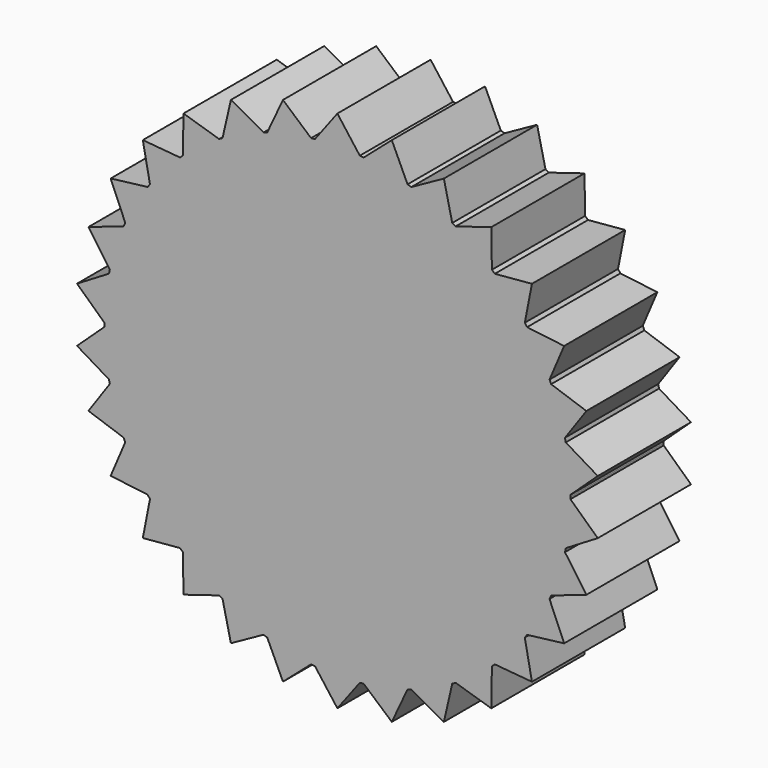
from build123d import *

# Parameters (mm, degrees)
F1_DEPTH = 12.7


with BuildPart() as f1:
    # F0 (on Front) → F1 (new body)
    with BuildSketch(Plane.XZ):
        with BuildLine():
            ThreePointArc((25.3991114904, -0.2124511716), (25.3997778716, -0.1062265148), (25.4, 0))
            ThreePointArc((25.4, 0), (25.3997778716, 0.1062265148), (25.3991114904, 0.2124511716))
            Line((25.3991114904, 0.2124511716), (25.2608561424, 2.655022967))
            Line((25.2608561424, 2.655022967), (24.8882510474, 5.0729636115))
            ThreePointArc((24.8882510474, 5.0729636115), (24.8449490586, 5.2809569468), (24.7999088828, 5.488580819))
            Line((24.7999088828, 5.488580819), (24.1568355139, 7.8490316571))
            Line((24.1568355139, 7.8490316571), (23.2896546065, 10.1366655419))
            ThreePointArc((23.2896546065, 10.1366655419), (23.2040546241, 10.3311107341), (23.1168312538, 10.5248331475))
            Line((23.1168312538, 10.5248331475), (21.9970452561, 12.7))
            Line((21.9970452561, 12.7), (20.6731885032, 14.7573465471))
            ThreePointArc((20.6731885032, 14.7573465471), (20.5490316571, 14.9297454082), (20.4234371722, 15.1010997636))
            Line((20.4234371722, 15.1010997636), (18.8758785671, 16.9959174015))
            Line((18.8758785671, 16.9959174015), (17.1532048613, 18.7330606945))
            ThreePointArc((17.1532048613, 18.7330606945), (16.9959174015, 18.8758785671), (16.8374408837, 19.017375857))
            Line((16.8374408837, 19.017375857), (14.9297454082, 20.5490316571))
            Line((14.9297454082, 20.5490316571), (12.8835438568, 21.8900501984))
            ThreePointArc((12.8835438568, 21.8900501984), (12.7, 21.9970452561), (12.5155676335, 22.10250137))
            Line((12.5155676335, 22.10250137), (10.3311107341, 23.2040546241))
            Line((10.3311107341, 23.2040546241), (8.0508101637, 24.0903394685))
            ThreePointArc((8.0508101637, 24.0903394685), (7.8490316571, 24.1568355139), (7.6467040214, 24.2216415135))
            Line((7.6467040214, 24.2216415135), (5.2809569468, 24.8449490586))
            Line((5.2809569468, 24.8449490586), (2.8662174343, 25.2377653056))
            ThreePointArc((2.8662174343, 25.2377653056), (2.655022967, 25.2608561424), (2.4436427506, 25.2821796945))
            Line((2.4436427506, 25.2821796945), (0, 25.4))
            Line((0, 25.4), (-2.4436427506, 25.2821796945))
            ThreePointArc((-2.4436427506, 25.2821796945), (-2.655022967, 25.2608561424), (-2.8662174343, 25.2377653056))
            Line((-2.8662174343, 25.2377653056), (-5.2809569468, 24.8449490586))
            Line((-5.2809569468, 24.8449490586), (-7.6467040214, 24.2216415135))
            ThreePointArc((-7.6467040214, 24.2216415135), (-7.8490316571, 24.1568355139), (-8.0508101637, 24.0903394685))
            Line((-8.0508101637, 24.0903394685), (-10.3311107341, 23.2040546241))
            Line((-10.3311107341, 23.2040546241), (-12.5155676335, 22.10250137))
            ThreePointArc((-12.5155676335, 22.10250137), (-12.7, 21.9970452561), (-12.8835438568, 21.8900501984))
            Line((-12.8835438568, 21.8900501984), (-14.9297454082, 20.5490316571))
            Line((-14.9297454082, 20.5490316571), (-16.8374408837, 19.017375857))
            ThreePointArc((-16.8374408837, 19.017375857), (-16.9959174015, 18.8758785671), (-17.1532048613, 18.7330606945))
            Line((-17.1532048613, 18.7330606945), (-18.8758785671, 16.9959174015))
            Line((-18.8758785671, 16.9959174015), (-20.4234371722, 15.1010997636))
            ThreePointArc((-20.4234371722, 15.1010997636), (-20.5490316571, 14.9297454082), (-20.6731885032, 14.7573465471))
            Line((-20.6731885032, 14.7573465471), (-21.9970452561, 12.7))
            Line((-21.9970452561, 12.7), (-23.1168312538, 10.5248331475))
            ThreePointArc((-23.1168312538, 10.5248331475), (-23.2040546241, 10.3311107341), (-23.2896546065, 10.1366655419))
            Line((-23.2896546065, 10.1366655419), (-24.1568355139, 7.8490316571))
            Line((-24.1568355139, 7.8490316571), (-24.7999088828, 5.488580819))
            ThreePointArc((-24.7999088828, 5.488580819), (-24.8449490586, 5.2809569468), (-24.8882510474, 5.0729636115))
            Line((-24.8882510474, 5.0729636115), (-25.2608561424, 2.655022967))
            Line((-25.2608561424, 2.655022967), (-25.3991114904, 0.2124511716))
            ThreePointArc((-25.3991114904, 0.2124511716), (-25.4, 0), (-25.3991114904, -0.2124511716))
            Line((-25.3991114904, -0.2124511716), (-25.2608561424, -2.655022967))
            Line((-25.2608561424, -2.655022967), (-24.8882510474, -5.0729636115))
            ThreePointArc((-24.8882510474, -5.0729636115), (-24.8449490586, -5.2809569468), (-24.7999088828, -5.488580819))
            Line((-24.7999088828, -5.488580819), (-24.1568355139, -7.8490316571))
            Line((-24.1568355139, -7.8490316571), (-23.2896546065, -10.1366655419))
            ThreePointArc((-23.2896546065, -10.1366655419), (-23.2040546241, -10.3311107341), (-23.1168312538, -10.5248331475))
            Line((-23.1168312538, -10.5248331475), (-21.9970452561, -12.7))
            Line((-21.9970452561, -12.7), (-20.6731885032, -14.7573465471))
            ThreePointArc((-20.6731885032, -14.7573465471), (-20.5490316571, -14.9297454082), (-20.4234371722, -15.1010997636))
            Line((-20.4234371722, -15.1010997636), (-18.8758785671, -16.9959174015))
            Line((-18.8758785671, -16.9959174015), (-17.1532048613, -18.7330606945))
            ThreePointArc((-17.1532048613, -18.7330606945), (-16.9959174015, -18.8758785671), (-16.8374408837, -19.017375857))
            Line((-16.8374408837, -19.017375857), (-14.9297454082, -20.5490316571))
            Line((-14.9297454082, -20.5490316571), (-12.8835438568, -21.8900501984))
            ThreePointArc((-12.8835438568, -21.8900501984), (-12.7, -21.9970452561), (-12.5155676335, -22.10250137))
            Line((-12.5155676335, -22.10250137), (-10.3311107341, -23.2040546241))
            Line((-10.3311107341, -23.2040546241), (-8.0508101637, -24.0903394685))
            ThreePointArc((-8.0508101637, -24.0903394685), (-7.8490316571, -24.1568355139), (-7.6467040214, -24.2216415135))
            Line((-7.6467040214, -24.2216415135), (-5.2809569468, -24.8449490586))
            Line((-5.2809569468, -24.8449490586), (-2.8662174343, -25.2377653056))
            ThreePointArc((-2.8662174343, -25.2377653056), (-2.655022967, -25.2608561424), (-2.4436427506, -25.2821796945))
            Line((-2.4436427506, -25.2821796945), (0, -25.4))
            Line((0, -25.4), (2.4436427506, -25.2821796945))
            ThreePointArc((2.4436427506, -25.2821796945), (2.655022967, -25.2608561424), (2.8662174343, -25.2377653056))
            Line((2.8662174343, -25.2377653056), (5.2809569468, -24.8449490586))
            Line((5.2809569468, -24.8449490586), (7.6467040214, -24.2216415135))
            ThreePointArc((7.6467040214, -24.2216415135), (7.8490316571, -24.1568355139), (8.0508101637, -24.0903394685))
            Line((8.0508101637, -24.0903394685), (10.3311107341, -23.2040546241))
            Line((10.3311107341, -23.2040546241), (12.5155676335, -22.10250137))
            ThreePointArc((12.5155676335, -22.10250137), (12.7, -21.9970452561), (12.8835438568, -21.8900501984))
            Line((12.8835438568, -21.8900501984), (14.9297454082, -20.5490316571))
            Line((14.9297454082, -20.5490316571), (16.8374408837, -19.017375857))
            ThreePointArc((16.8374408837, -19.017375857), (16.9959174015, -18.8758785671), (17.1532048613, -18.7330606945))
            Line((17.1532048613, -18.7330606945), (18.8758785671, -16.9959174015))
            Line((18.8758785671, -16.9959174015), (20.4234371722, -15.1010997636))
            ThreePointArc((20.4234371722, -15.1010997636), (20.5490316571, -14.9297454082), (20.6731885032, -14.7573465471))
            Line((20.6731885032, -14.7573465471), (21.9970452561, -12.7))
            Line((21.9970452561, -12.7), (23.1168312538, -10.5248331475))
            ThreePointArc((23.1168312538, -10.5248331475), (23.2040546241, -10.3311107341), (23.2896546065, -10.1366655419))
            Line((23.2896546065, -10.1366655419), (24.1568355139, -7.8490316571))
            Line((24.1568355139, -7.8490316571), (24.7999088828, -5.488580819))
            ThreePointArc((24.7999088828, -5.488580819), (24.8449490586, -5.2809569468), (24.8882510474, -5.0729636115))
            Line((24.8882510474, -5.0729636115), (25.2608561424, -2.655022967))
            Line((25.2608561424, -2.655022967), (25.3991114904, -0.2124511716))
        make_face()
        with BuildLine():
            Line((25.2608561424, 2.655022967), (25.3991114904, 0.2124511716))
            ThreePointArc((25.3991114904, 0.2124511716), (25.3594088926, 1.4354025983), (25.2608561424, 2.655022967))
        make_face()
        with BuildLine():
            ThreePointArc((25.2608561424, 2.655022967), (25.3594088926, 1.4354025983), (25.3991114904, 0.2124511716))
            Line((25.3991114904, 0.2124511716), (28.3731537557, 2.9821386276))
            Line((28.3731537557, 2.9821386276), (24.8882510474, 5.0729636115))
            ThreePointArc((24.8882510474, 5.0729636115), (25.1036819455, 3.8684819734), (25.2608561424, 2.655022967))
        make_face()
        with BuildLine():
            Line((28.3731537557, -2.9821386276), (25.3991114904, -0.2124511716))
            ThreePointArc((25.3991114904, -0.2124511716), (25.3594088926, -1.4354025983), (25.2608561424, -2.655022967))
            ThreePointArc((25.2608561424, -2.655022967), (25.1036819455, -3.8684819734), (24.8882510474, -5.0729636115))
            Line((24.8882510474, -5.0729636115), (28.3731537557, -2.9821386276))
        make_face()
        with BuildLine():
            ThreePointArc((25.2608561424, -2.655022967), (25.3594088926, -1.4354025983), (25.3991114904, -0.2124511716))
            Line((25.3991114904, -0.2124511716), (25.2608561424, -2.655022967))
        make_face()
        with BuildLine():
            Line((24.8882510474, 5.0729636115), (25.2608561424, 2.655022967))
            ThreePointArc((25.2608561424, 2.655022967), (25.1036819455, 3.8684819734), (24.8882510474, 5.0729636115))
        make_face()
        with BuildLine():
            ThreePointArc((24.8882510474, -5.0729636115), (25.1036819455, -3.8684819734), (25.2608561424, -2.655022967))
            Line((25.2608561424, -2.655022967), (24.8882510474, -5.0729636115))
        make_face()
        with BuildLine():
            Line((24.1568355139, 7.8490316571), (24.7999088828, 5.488580819))
            ThreePointArc((24.7999088828, 5.488580819), (24.5068079831, 6.6765531886), (24.1568355139, 7.8490316571))
        make_face()
        with BuildLine():
            ThreePointArc((24.1568355139, 7.8490316571), (24.5068079831, 6.6765531886), (24.7999088828, 5.488580819))
            Line((24.7999088828, 5.488580819), (27.1331107871, 8.8160821148))
            Line((27.1331107871, 8.8160821148), (23.2896546065, 10.1366655419))
            ThreePointArc((23.2896546065, 10.1366655419), (23.7508036366, 9.0032953198), (24.1568355139, 7.8490316571))
        make_face()
        with BuildLine():
            Line((27.1331107871, -8.8160821148), (24.7999088828, -5.488580819))
            ThreePointArc((24.7999088828, -5.488580819), (24.5068079831, -6.6765531886), (24.1568355139, -7.8490316571))
            ThreePointArc((24.1568355139, -7.8490316571), (23.7508036366, -9.0032953198), (23.2896546065, -10.1366655419))
            Line((23.2896546065, -10.1366655419), (27.1331107871, -8.8160821148))
        make_face()
        with BuildLine():
            ThreePointArc((24.1568355139, -7.8490316571), (24.5068079831, -6.6765531886), (24.7999088828, -5.488580819))
            Line((24.7999088828, -5.488580819), (24.1568355139, -7.8490316571))
        make_face()
        with BuildLine():
            Line((23.2896546065, 10.1366655419), (24.1568355139, 7.8490316571))
            ThreePointArc((24.1568355139, 7.8490316571), (23.7508036366, 9.0032953198), (23.2896546065, 10.1366655419))
        make_face()
        with BuildLine():
            ThreePointArc((23.2896546065, -10.1366655419), (23.7508036366, -9.0032953198), (24.1568355139, -7.8490316571))
            Line((24.1568355139, -7.8490316571), (23.2896546065, -10.1366655419))
        make_face()
        with BuildLine():
            Line((21.9970452561, 12.7), (23.1168312538, 10.5248331475))
            ThreePointArc((23.1168312538, 10.5248331475), (22.583141968, 11.6259063669), (21.9970452561, 12.7))
        make_face()
        with BuildLine():
            ThreePointArc((21.9970452561, 12.7), (22.583141968, 11.6259063669), (23.1168312538, 10.5248331475))
            Line((23.1168312538, 10.5248331475), (24.7072206779, 14.2647205093))
            Line((24.7072206779, 14.2647205093), (20.6731885032, 14.7573465471))
            ThreePointArc((20.6731885032, 14.7573465471), (21.3599012398, 13.7446214581), (21.9970452561, 12.7))
        make_face()
        with BuildLine():
            Line((24.7072206779, -14.2647205093), (23.1168312538, -10.5248331475))
            ThreePointArc((23.1168312538, -10.5248331475), (22.583141968, -11.6259063669), (21.9970452561, -12.7))
            ThreePointArc((21.9970452561, -12.7), (21.3599012398, -13.7446214581), (20.6731885032, -14.7573465471))
            Line((20.6731885032, -14.7573465471), (24.7072206779, -14.2647205093))
        make_face()
        with BuildLine():
            ThreePointArc((21.9970452561, -12.7), (22.583141968, -11.6259063669), (23.1168312538, -10.5248331475))
            Line((23.1168312538, -10.5248331475), (21.9970452561, -12.7))
        make_face()
        with BuildLine():
            Line((20.6731885032, 14.7573465471), (21.9970452561, 12.7))
            ThreePointArc((21.9970452561, 12.7), (21.3599012398, 13.7446214581), (20.6731885032, 14.7573465471))
        make_face()
        with BuildLine():
            ThreePointArc((20.6731885032, -14.7573465471), (21.3599012398, -13.7446214581), (21.9970452561, -12.7))
            Line((21.9970452561, -12.7), (20.6731885032, -14.7573465471))
        make_face()
        with BuildLine():
            Line((18.8758785671, 16.9959174015), (20.4234371722, 15.1010997636))
            ThreePointArc((20.4234371722, 15.1010997636), (19.672484283, 16.0671516497), (18.8758785671, 16.9959174015))
        make_face()
        with BuildLine():
            ThreePointArc((18.8758785671, 16.9959174015), (19.672484283, 16.0671516497), (20.4234371722, 15.1010997636))
            Line((20.4234371722, 15.1010997636), (21.2015064668, 19.0899221679))
            Line((21.2015064668, 19.0899221679), (17.1532048613, 18.7330606945))
            ThreePointArc((17.1532048613, 18.7330606945), (18.0354686626, 17.8852416847), (18.8758785671, 16.9959174015))
        make_face()
        with BuildLine():
            Line((21.2015064668, -19.0899221679), (20.4234371722, -15.1010997636))
            ThreePointArc((20.4234371722, -15.1010997636), (19.672484283, -16.0671516497), (18.8758785671, -16.9959174015))
            ThreePointArc((18.8758785671, -16.9959174015), (18.0354686626, -17.8852416847), (17.1532048613, -18.7330606945))
            Line((17.1532048613, -18.7330606945), (21.2015064668, -19.0899221679))
        make_face()
        with BuildLine():
            ThreePointArc((18.8758785671, -16.9959174015), (19.672484283, -16.0671516497), (20.4234371722, -15.1010997636))
            Line((20.4234371722, -15.1010997636), (18.8758785671, -16.9959174015))
        make_face()
        with BuildLine():
            Line((17.1532048613, 18.7330606945), (18.8758785671, 16.9959174015))
            ThreePointArc((18.8758785671, 16.9959174015), (18.0354686626, 17.8852416847), (17.1532048613, 18.7330606945))
        make_face()
        with BuildLine():
            ThreePointArc((17.1532048613, -18.7330606945), (18.0354686626, -17.8852416847), (18.8758785671, -16.9959174015))
            Line((18.8758785671, -16.9959174015), (17.1532048613, -18.7330606945))
        make_face()
        with BuildLine():
            Line((14.9297454082, 20.5490316571), (16.8374408837, 19.017375857))
            ThreePointArc((16.8374408837, 19.017375857), (15.9020446358, 19.8061853066), (14.9297454082, 20.5490316571))
        make_face()
        with BuildLine():
            ThreePointArc((14.9297454082, 20.5490316571), (15.9020446358, 19.8061853066), (16.8374408837, 19.017375857))
            Line((16.8374408837, 19.017375857), (16.7691846869, 23.0808026241))
            Line((16.7691846869, 23.0808026241), (12.8835438568, 21.8900501984))
            ThreePointArc((12.8835438568, 21.8900501984), (13.9227995611, 21.2441910268), (14.9297454082, 20.5490316571))
        make_face()
        with BuildLine():
            Line((16.7691846869, -23.0808026241), (16.8374408837, -19.017375857))
            ThreePointArc((16.8374408837, -19.017375857), (15.9020446358, -19.8061853066), (14.9297454082, -20.5490316571))
            ThreePointArc((14.9297454082, -20.5490316571), (13.9227995611, -21.2441910268), (12.8835438568, -21.8900501984))
            Line((12.8835438568, -21.8900501984), (16.7691846869, -23.0808026241))
        make_face()
        with BuildLine():
            ThreePointArc((14.9297454082, -20.5490316571), (15.9020446358, -19.8061853066), (16.8374408837, -19.017375857))
            Line((16.8374408837, -19.017375857), (14.9297454082, -20.5490316571))
        make_face()
        with BuildLine():
            Line((12.8835438568, 21.8900501984), (14.9297454082, 20.5490316571))
            ThreePointArc((14.9297454082, 20.5490316571), (13.9227995611, 21.2441910268), (12.8835438568, 21.8900501984))
        make_face()
        with BuildLine():
            ThreePointArc((12.8835438568, -21.8900501984), (13.9227995611, -21.2441910268), (14.9297454082, -20.5490316571))
            Line((14.9297454082, -20.5490316571), (12.8835438568, -21.8900501984))
        make_face()
        with BuildLine():
            Line((10.3311107341, 23.2040546241), (12.5155676335, 22.10250137))
            ThreePointArc((12.5155676335, 22.10250137), (11.4366093315, 22.6795936251), (10.3311107341, 23.2040546241))
        make_face()
        with BuildLine():
            ThreePointArc((10.3311107341, 23.2040546241), (11.4366093315, 22.6795936251), (12.5155676335, 22.10250137))
            Line((12.5155676335, 22.10250137), (11.6039690688, 26.0629412517))
            Line((11.6039690688, 26.0629412517), (8.0508101637, 24.0903394685))
            ThreePointArc((8.0508101637, 24.0903394685), (9.2016373097, 23.67466728), (10.3311107341, 23.2040546241))
        make_face()
        with BuildLine():
            Line((11.6039690688, -26.0629412517), (12.5155676335, -22.10250137))
            ThreePointArc((12.5155676335, -22.10250137), (11.4366093315, -22.6795936251), (10.3311107341, -23.2040546241))
            ThreePointArc((10.3311107341, -23.2040546241), (9.2016373097, -23.67466728), (8.0508101637, -24.0903394685))
            Line((8.0508101637, -24.0903394685), (11.6039690688, -26.0629412517))
        make_face()
        with BuildLine():
            ThreePointArc((10.3311107341, -23.2040546241), (11.4366093315, -22.6795936251), (12.5155676335, -22.10250137))
            Line((12.5155676335, -22.10250137), (10.3311107341, -23.2040546241))
        make_face()
        with BuildLine():
            Line((8.0508101637, 24.0903394685), (10.3311107341, 23.2040546241))
            ThreePointArc((10.3311107341, 23.2040546241), (9.2016373097, 23.67466728), (8.0508101637, 24.0903394685))
        make_face()
        with BuildLine():
            ThreePointArc((8.0508101637, -24.0903394685), (9.2016373097, -23.67466728), (10.3311107341, -23.2040546241))
            Line((10.3311107341, -23.2040546241), (8.0508101637, -24.0903394685))
        make_face()
        with BuildLine():
            Line((5.2809569468, 24.8449490586), (7.6467040214, 24.2216415135))
            ThreePointArc((7.6467040214, 24.2216415135), (6.4713393205, 24.5617948733), (5.2809569468, 24.8449490586))
        make_face()
        with BuildLine():
            ThreePointArc((5.2809569468, 24.8449490586), (6.4713393205, 24.5617948733), (7.6467040214, 24.2216415135))
            Line((7.6467040214, 24.2216415135), (5.9316043203, 27.9060042827))
            Line((5.9316043203, 27.9060042827), (2.8662174343, 25.2377653056))
            ThreePointArc((2.8662174343, 25.2377653056), (4.0783193536, 25.0704469695), (5.2809569468, 24.8449490586))
        make_face()
        with BuildLine():
            Line((5.9316043203, -27.9060042827), (7.6467040214, -24.2216415135))
            ThreePointArc((7.6467040214, -24.2216415135), (6.4713393205, -24.5617948733), (5.2809569468, -24.8449490586))
            ThreePointArc((5.2809569468, -24.8449490586), (4.0783193536, -25.0704469695), (2.8662174343, -25.2377653056))
            Line((2.8662174343, -25.2377653056), (5.9316043203, -27.9060042827))
        make_face()
        with BuildLine():
            ThreePointArc((5.2809569468, -24.8449490586), (6.4713393205, -24.5617948733), (7.6467040214, -24.2216415135))
            Line((7.6467040214, -24.2216415135), (5.2809569468, -24.8449490586))
        make_face()
        with BuildLine():
            Line((2.8662174343, 25.2377653056), (5.2809569468, 24.8449490586))
            ThreePointArc((5.2809569468, 24.8449490586), (4.0783193536, 25.0704469695), (2.8662174343, 25.2377653056))
        make_face()
        with BuildLine():
            ThreePointArc((2.8662174343, -25.2377653056), (4.0783193536, -25.0704469695), (5.2809569468, -24.8449490586))
            Line((5.2809569468, -24.8449490586), (2.8662174343, -25.2377653056))
        make_face()
        with BuildLine():
            Line((0, 25.4), (2.4436427506, 25.2821796945))
            ThreePointArc((2.4436427506, 25.2821796945), (1.2232407283, 25.370527825), (0, 25.4))
        make_face()
        with BuildLine():
            ThreePointArc((0, 25.4), (1.2232407283, 25.370527825), (2.4436427506, 25.2821796945))
            Line((2.4436427506, 25.2821796945), (0, 28.5294410187))
            Line((0, 28.5294410187), (-2.4436427506, 25.2821796945))
            ThreePointArc((-2.4436427506, 25.2821796945), (-1.2232407283, 25.370527825), (0, 25.4))
        make_face()
        with BuildLine():
            Line((0, -28.5294410187), (2.4436427506, -25.2821796945))
            ThreePointArc((2.4436427506, -25.2821796945), (1.2232407283, -25.370527825), (0, -25.4))
            ThreePointArc((0, -25.4), (-1.2232407283, -25.370527825), (-2.4436427506, -25.2821796945))
            Line((-2.4436427506, -25.2821796945), (0, -28.5294410187))
        make_face()
        with BuildLine():
            ThreePointArc((0, -25.4), (1.2232407283, -25.370527825), (2.4436427506, -25.2821796945))
            Line((2.4436427506, -25.2821796945), (0, -25.4))
        make_face()
        with BuildLine():
            Line((-2.4436427506, 25.2821796945), (0, 25.4))
            ThreePointArc((0, 25.4), (-1.2232407283, 25.370527825), (-2.4436427506, 25.2821796945))
        make_face()
        with BuildLine():
            ThreePointArc((-2.4436427506, -25.2821796945), (-1.2232407283, -25.370527825), (0, -25.4))
            Line((0, -25.4), (-2.4436427506, -25.2821796945))
        make_face()
        with BuildLine():
            Line((-5.2809569468, 24.8449490586), (-2.8662174343, 25.2377653056))
            ThreePointArc((-2.8662174343, 25.2377653056), (-4.0783193536, 25.0704469695), (-5.2809569468, 24.8449490586))
        make_face()
        with BuildLine():
            ThreePointArc((-5.2809569468, 24.8449490586), (-4.0783193536, 25.0704469695), (-2.8662174343, 25.2377653056))
            Line((-2.8662174343, 25.2377653056), (-5.9316043203, 27.9060042827))
            Line((-5.9316043203, 27.9060042827), (-7.6467040214, 24.2216415135))
            ThreePointArc((-7.6467040214, 24.2216415135), (-6.4713393205, 24.5617948733), (-5.2809569468, 24.8449490586))
        make_face()
        with BuildLine():
            Line((-5.9316043203, -27.9060042827), (-2.8662174343, -25.2377653056))
            ThreePointArc((-2.8662174343, -25.2377653056), (-4.0783193536, -25.0704469695), (-5.2809569468, -24.8449490586))
            ThreePointArc((-5.2809569468, -24.8449490586), (-6.4713393205, -24.5617948733), (-7.6467040214, -24.2216415135))
            Line((-7.6467040214, -24.2216415135), (-5.9316043203, -27.9060042827))
        make_face()
        with BuildLine():
            ThreePointArc((-5.2809569468, -24.8449490586), (-4.0783193536, -25.0704469695), (-2.8662174343, -25.2377653056))
            Line((-2.8662174343, -25.2377653056), (-5.2809569468, -24.8449490586))
        make_face()
        with BuildLine():
            Line((-7.6467040214, 24.2216415135), (-5.2809569468, 24.8449490586))
            ThreePointArc((-5.2809569468, 24.8449490586), (-6.4713393205, 24.5617948733), (-7.6467040214, 24.2216415135))
        make_face()
        with BuildLine():
            ThreePointArc((-7.6467040214, -24.2216415135), (-6.4713393205, -24.5617948733), (-5.2809569468, -24.8449490586))
            Line((-5.2809569468, -24.8449490586), (-7.6467040214, -24.2216415135))
        make_face()
        with BuildLine():
            Line((-10.3311107341, 23.2040546241), (-8.0508101637, 24.0903394685))
            ThreePointArc((-8.0508101637, 24.0903394685), (-9.2016373097, 23.67466728), (-10.3311107341, 23.2040546241))
        make_face()
        with BuildLine():
            ThreePointArc((-10.3311107341, 23.2040546241), (-9.2016373097, 23.67466728), (-8.0508101637, 24.0903394685))
            Line((-8.0508101637, 24.0903394685), (-11.6039690688, 26.0629412517))
            Line((-11.6039690688, 26.0629412517), (-12.5155676335, 22.10250137))
            ThreePointArc((-12.5155676335, 22.10250137), (-11.4366093315, 22.6795936251), (-10.3311107341, 23.2040546241))
        make_face()
        with BuildLine():
            Line((-11.6039690688, -26.0629412517), (-8.0508101637, -24.0903394685))
            ThreePointArc((-8.0508101637, -24.0903394685), (-9.2016373097, -23.67466728), (-10.3311107341, -23.2040546241))
            ThreePointArc((-10.3311107341, -23.2040546241), (-11.4366093315, -22.6795936251), (-12.5155676335, -22.10250137))
            Line((-12.5155676335, -22.10250137), (-11.6039690688, -26.0629412517))
        make_face()
        with BuildLine():
            ThreePointArc((-10.3311107341, -23.2040546241), (-9.2016373097, -23.67466728), (-8.0508101637, -24.0903394685))
            Line((-8.0508101637, -24.0903394685), (-10.3311107341, -23.2040546241))
        make_face()
        with BuildLine():
            Line((-12.5155676335, 22.10250137), (-10.3311107341, 23.2040546241))
            ThreePointArc((-10.3311107341, 23.2040546241), (-11.4366093315, 22.6795936251), (-12.5155676335, 22.10250137))
        make_face()
        with BuildLine():
            ThreePointArc((-12.5155676335, -22.10250137), (-11.4366093315, -22.6795936251), (-10.3311107341, -23.2040546241))
            Line((-10.3311107341, -23.2040546241), (-12.5155676335, -22.10250137))
        make_face()
        with BuildLine():
            Line((-14.9297454082, 20.5490316571), (-12.8835438568, 21.8900501984))
            ThreePointArc((-12.8835438568, 21.8900501984), (-13.9227995611, 21.2441910268), (-14.9297454082, 20.5490316571))
        make_face()
        with BuildLine():
            ThreePointArc((-14.9297454082, 20.5490316571), (-13.9227995611, 21.2441910268), (-12.8835438568, 21.8900501984))
            Line((-12.8835438568, 21.8900501984), (-16.7691846869, 23.0808026241))
            Line((-16.7691846869, 23.0808026241), (-16.8374408837, 19.017375857))
            ThreePointArc((-16.8374408837, 19.017375857), (-15.9020446358, 19.8061853066), (-14.9297454082, 20.5490316571))
        make_face()
        with BuildLine():
            Line((-16.7691846869, -23.0808026241), (-12.8835438568, -21.8900501984))
            ThreePointArc((-12.8835438568, -21.8900501984), (-13.9227995611, -21.2441910268), (-14.9297454082, -20.5490316571))
            ThreePointArc((-14.9297454082, -20.5490316571), (-15.9020446358, -19.8061853066), (-16.8374408837, -19.017375857))
            Line((-16.8374408837, -19.017375857), (-16.7691846869, -23.0808026241))
        make_face()
        with BuildLine():
            ThreePointArc((-14.9297454082, -20.5490316571), (-13.9227995611, -21.2441910268), (-12.8835438568, -21.8900501984))
            Line((-12.8835438568, -21.8900501984), (-14.9297454082, -20.5490316571))
        make_face()
        with BuildLine():
            Line((-16.8374408837, 19.017375857), (-14.9297454082, 20.5490316571))
            ThreePointArc((-14.9297454082, 20.5490316571), (-15.9020446358, 19.8061853066), (-16.8374408837, 19.017375857))
        make_face()
        with BuildLine():
            ThreePointArc((-16.8374408837, -19.017375857), (-15.9020446358, -19.8061853066), (-14.9297454082, -20.5490316571))
            Line((-14.9297454082, -20.5490316571), (-16.8374408837, -19.017375857))
        make_face()
        with BuildLine():
            Line((-18.8758785671, 16.9959174015), (-17.1532048613, 18.7330606945))
            ThreePointArc((-17.1532048613, 18.7330606945), (-18.0354686626, 17.8852416847), (-18.8758785671, 16.9959174015))
        make_face()
        with BuildLine():
            ThreePointArc((-18.8758785671, 16.9959174015), (-18.0354686626, 17.8852416847), (-17.1532048613, 18.7330606945))
            Line((-17.1532048613, 18.7330606945), (-21.2015064668, 19.0899221679))
            Line((-21.2015064668, 19.0899221679), (-20.4234371722, 15.1010997636))
            ThreePointArc((-20.4234371722, 15.1010997636), (-19.672484283, 16.0671516497), (-18.8758785671, 16.9959174015))
        make_face()
        with BuildLine():
            Line((-21.2015064668, -19.0899221679), (-17.1532048613, -18.7330606945))
            ThreePointArc((-17.1532048613, -18.7330606945), (-18.0354686626, -17.8852416847), (-18.8758785671, -16.9959174015))
            ThreePointArc((-18.8758785671, -16.9959174015), (-19.672484283, -16.0671516497), (-20.4234371722, -15.1010997636))
            Line((-20.4234371722, -15.1010997636), (-21.2015064668, -19.0899221679))
        make_face()
        with BuildLine():
            ThreePointArc((-18.8758785671, -16.9959174015), (-18.0354686626, -17.8852416847), (-17.1532048613, -18.7330606945))
            Line((-17.1532048613, -18.7330606945), (-18.8758785671, -16.9959174015))
        make_face()
        with BuildLine():
            Line((-20.4234371722, 15.1010997636), (-18.8758785671, 16.9959174015))
            ThreePointArc((-18.8758785671, 16.9959174015), (-19.672484283, 16.0671516497), (-20.4234371722, 15.1010997636))
        make_face()
        with BuildLine():
            ThreePointArc((-20.4234371722, -15.1010997636), (-19.672484283, -16.0671516497), (-18.8758785671, -16.9959174015))
            Line((-18.8758785671, -16.9959174015), (-20.4234371722, -15.1010997636))
        make_face()
        with BuildLine():
            Line((-21.9970452561, 12.7), (-20.6731885032, 14.7573465471))
            ThreePointArc((-20.6731885032, 14.7573465471), (-21.3599012398, 13.7446214581), (-21.9970452561, 12.7))
        make_face()
        with BuildLine():
            ThreePointArc((-21.9970452561, 12.7), (-21.3599012398, 13.7446214581), (-20.6731885032, 14.7573465471))
            Line((-20.6731885032, 14.7573465471), (-24.7072206779, 14.2647205093))
            Line((-24.7072206779, 14.2647205093), (-23.1168312538, 10.5248331475))
            ThreePointArc((-23.1168312538, 10.5248331475), (-22.583141968, 11.6259063669), (-21.9970452561, 12.7))
        make_face()
        with BuildLine():
            Line((-24.7072206779, -14.2647205093), (-20.6731885032, -14.7573465471))
            ThreePointArc((-20.6731885032, -14.7573465471), (-21.3599012398, -13.7446214581), (-21.9970452561, -12.7))
            ThreePointArc((-21.9970452561, -12.7), (-22.583141968, -11.6259063669), (-23.1168312538, -10.5248331475))
            Line((-23.1168312538, -10.5248331475), (-24.7072206779, -14.2647205093))
        make_face()
        with BuildLine():
            ThreePointArc((-21.9970452561, -12.7), (-21.3599012398, -13.7446214581), (-20.6731885032, -14.7573465471))
            Line((-20.6731885032, -14.7573465471), (-21.9970452561, -12.7))
        make_face()
        with BuildLine():
            Line((-23.1168312538, 10.5248331475), (-21.9970452561, 12.7))
            ThreePointArc((-21.9970452561, 12.7), (-22.583141968, 11.6259063669), (-23.1168312538, 10.5248331475))
        make_face()
        with BuildLine():
            ThreePointArc((-23.1168312538, -10.5248331475), (-22.583141968, -11.6259063669), (-21.9970452561, -12.7))
            Line((-21.9970452561, -12.7), (-23.1168312538, -10.5248331475))
        make_face()
        with BuildLine():
            Line((-24.1568355139, 7.8490316571), (-23.2896546065, 10.1366655419))
            ThreePointArc((-23.2896546065, 10.1366655419), (-23.7508036366, 9.0032953198), (-24.1568355139, 7.8490316571))
        make_face()
        with BuildLine():
            ThreePointArc((-24.1568355139, 7.8490316571), (-23.7508036366, 9.0032953198), (-23.2896546065, 10.1366655419))
            Line((-23.2896546065, 10.1366655419), (-27.1331107871, 8.8160821148))
            Line((-27.1331107871, 8.8160821148), (-24.7999088828, 5.488580819))
            ThreePointArc((-24.7999088828, 5.488580819), (-24.5068079831, 6.6765531886), (-24.1568355139, 7.8490316571))
        make_face()
        with BuildLine():
            Line((-27.1331107871, -8.8160821148), (-23.2896546065, -10.1366655419))
            ThreePointArc((-23.2896546065, -10.1366655419), (-23.7508036366, -9.0032953198), (-24.1568355139, -7.8490316571))
            ThreePointArc((-24.1568355139, -7.8490316571), (-24.5068079831, -6.6765531886), (-24.7999088828, -5.488580819))
            Line((-24.7999088828, -5.488580819), (-27.1331107871, -8.8160821148))
        make_face()
        with BuildLine():
            ThreePointArc((-24.1568355139, -7.8490316571), (-23.7508036366, -9.0032953198), (-23.2896546065, -10.1366655419))
            Line((-23.2896546065, -10.1366655419), (-24.1568355139, -7.8490316571))
        make_face()
        with BuildLine():
            Line((-24.7999088828, 5.488580819), (-24.1568355139, 7.8490316571))
            ThreePointArc((-24.1568355139, 7.8490316571), (-24.5068079831, 6.6765531886), (-24.7999088828, 5.488580819))
        make_face()
        with BuildLine():
            ThreePointArc((-24.7999088828, -5.488580819), (-24.5068079831, -6.6765531886), (-24.1568355139, -7.8490316571))
            Line((-24.1568355139, -7.8490316571), (-24.7999088828, -5.488580819))
        make_face()
        with BuildLine():
            Line((-25.2608561424, 2.655022967), (-24.8882510474, 5.0729636115))
            ThreePointArc((-24.8882510474, 5.0729636115), (-25.1036819455, 3.8684819734), (-25.2608561424, 2.655022967))
        make_face()
        with BuildLine():
            ThreePointArc((-25.2608561424, 2.655022967), (-25.1036819455, 3.8684819734), (-24.8882510474, 5.0729636115))
            Line((-24.8882510474, 5.0729636115), (-28.3731537557, 2.9821386276))
            Line((-28.3731537557, 2.9821386276), (-25.3991114904, 0.2124511716))
            ThreePointArc((-25.3991114904, 0.2124511716), (-25.3594088926, 1.4354025983), (-25.2608561424, 2.655022967))
        make_face()
        with BuildLine():
            Line((-28.3731537557, -2.9821386276), (-24.8882510474, -5.0729636115))
            ThreePointArc((-24.8882510474, -5.0729636115), (-25.1036819455, -3.8684819734), (-25.2608561424, -2.655022967))
            ThreePointArc((-25.2608561424, -2.655022967), (-25.3594088926, -1.4354025983), (-25.3991114904, -0.2124511716))
            Line((-25.3991114904, -0.2124511716), (-28.3731537557, -2.9821386276))
        make_face()
        with BuildLine():
            ThreePointArc((-25.2608561424, -2.655022967), (-25.1036819455, -3.8684819734), (-24.8882510474, -5.0729636115))
            Line((-24.8882510474, -5.0729636115), (-25.2608561424, -2.655022967))
        make_face()
        with BuildLine():
            Line((-25.3991114904, 0.2124511716), (-25.2608561424, 2.655022967))
            ThreePointArc((-25.2608561424, 2.655022967), (-25.3594088926, 1.4354025983), (-25.3991114904, 0.2124511716))
        make_face()
        with BuildLine():
            ThreePointArc((-25.3991114904, -0.2124511716), (-25.3594088926, -1.4354025983), (-25.2608561424, -2.655022967))
            Line((-25.2608561424, -2.655022967), (-25.3991114904, -0.2124511716))
        make_face()
    extrude(amount=F1_DEPTH)


solid = f1.part
